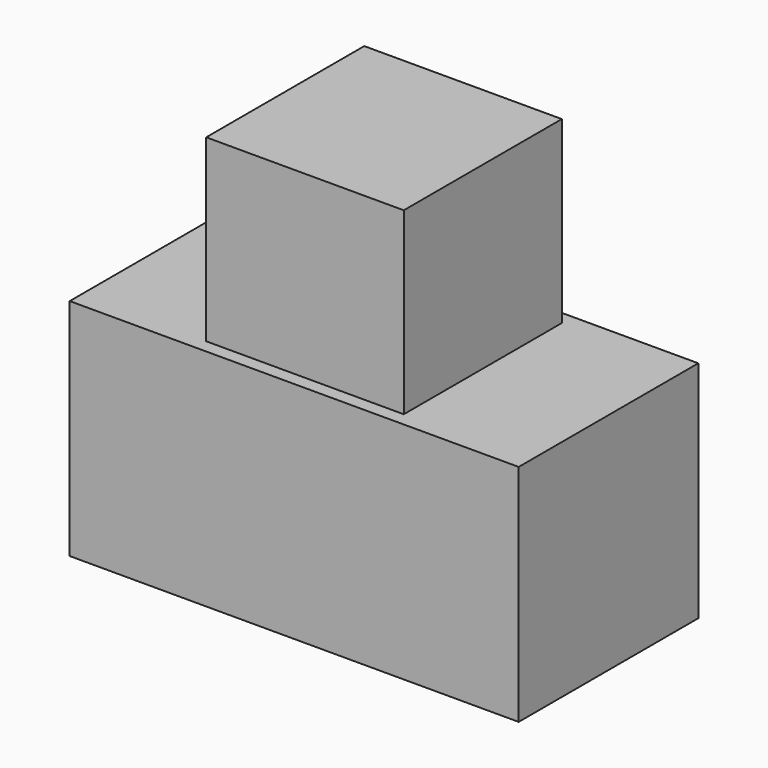
from build123d import *

# Parameters (mm, degrees)
BOX_W              = 10
BOX_H              = 10
BOX_DEPTH          = 10
SKETCH_W           = 4.4
SKETCH_H           = 4.4
PAD_DEPTH          = 4
PAD_FACE4_W        = 10
PAD_FACE4_H        = 10
POCKET_DEPTH       = 2.5
POCKET_FACE5_W     = 10
POCKET_FACE5_H     = 10
POCKET001_DEPTH    = 2.5
SKETCH001_W        = 5
SKETCH001_H        = 10
PAD001_DEPTH       = 10
SKETCH002_W        = 4.4
SKETCH002_H        = 4.4
PAD002_DEPTH       = 4
PAD002_FACE22_W    = 4.4
PAD002_FACE22_H    = 4.4
POCKET002_DEPTH    = 5
POCKET002_FACE16_W = 5
POCKET002_FACE16_H = 10
POCKET003_DEPTH    = 7.5
POCKET003_FACE15_W = 5
POCKET003_FACE15_H = 10
POCKET004_DEPTH    = 2.5
PAD003_DEPTH       = 5
POCKET005_DEPTH    = 10


with BuildPart() as part:
    # Box → Box (new body)
    with BuildSketch(Plane.XY):
        with Locations((5, 5)):
            Rectangle(BOX_W, BOX_H)
    extrude(amount=BOX_DEPTH)

    # Sketch (on Face6 of BaseFeature) → Pad (new body)
    with BuildSketch(Plane.XY.offset(10)):
        with Locations((5, 5)):
            Rectangle(SKETCH_W, SKETCH_H)
    extrude(amount=PAD_DEPTH)

    # Pad Face4 → Pocket (cut)
    with BuildSketch(Plane(origin=(5, 10, 5), x_dir=(1, 0, 0), z_dir=(0, 1, 0))):
        Rectangle(PAD_FACE4_W, PAD_FACE4_H)
    extrude(amount=-POCKET_DEPTH, mode=Mode.SUBTRACT)

    # Pocket Face5 → Pocket001 (cut)
    with BuildSketch(Plane(origin=(5, 0, 5), x_dir=(-1, 0, 0), z_dir=(0, -1, 0))):
        Rectangle(POCKET_FACE5_W, POCKET_FACE5_H)
    extrude(amount=-POCKET001_DEPTH, mode=Mode.SUBTRACT)

    # Sketch001 (on Face3 of Pocket001) → Pad001 (join)
    with BuildSketch(Plane(origin=(0, 7.5, 0), x_dir=(-1, 0, 0), z_dir=(0, 1, 0))):
        with Locations((-5, 5)):
            Rectangle(SKETCH001_W, SKETCH001_H)
    extrude(amount=PAD001_DEPTH)

    # Sketch002 (on Face6 of Pad001) → Pad002 (join)
    with BuildSketch(Plane.XY.offset(10)):
        with Locations((5, 12.5)):
            Rectangle(SKETCH002_W, SKETCH002_H)
    extrude(amount=PAD002_DEPTH)

    # Pad002 Face22 → Pocket002 (cut)
    with BuildSketch(Plane(origin=(5, 12.5, 14), x_dir=(0, 1, 0), z_dir=(0, 0, 1))):
        Rectangle(PAD002_FACE22_W, PAD002_FACE22_H)
    extrude(amount=-POCKET002_DEPTH, mode=Mode.SUBTRACT)

    # Pocket002 Face16 → Pocket003 (cut)
    with BuildSketch(Plane(origin=(5, 17.5, 5), x_dir=(1, 0, 0), z_dir=(0, 1, 0))):
        Rectangle(POCKET002_FACE16_W, POCKET002_FACE16_H)
    extrude(amount=-POCKET003_DEPTH, mode=Mode.SUBTRACT)

    # Pocket003 Face15 → Pocket004 (cut)
    with BuildSketch(Plane(origin=(5, 10, 5), x_dir=(1, 0, 0), z_dir=(0, 1, 0))):
        Rectangle(POCKET003_FACE15_W, POCKET003_FACE15_H)
    extrude(amount=-POCKET004_DEPTH, mode=Mode.SUBTRACT)

    # Pocket004 Face4 → Pad003 (add)
    with BuildSketch(Plane(origin=(5, 5, 0), x_dir=(0, -1, 0), z_dir=(0, 0, -1))):
        Polygon((2.5, 5), (-2.5, 5), (-2.5, 2.5), (-2.5, -2.5), (-2.5, -5), (2.5, -5), align=None)
    extrude(amount=PAD003_DEPTH)

    # Pad003 Face15 → Pocket005 (cut)
    with BuildSketch(Plane(origin=(5, 5, -5), x_dir=(0, -1, 0), z_dir=(0, 0, -1))):
        Polygon((2.5, 5), (-2.5, 5), (-2.5, 2.5), (-2.5, -2.5), (-2.5, -5), (2.5, -5), align=None)
    extrude(amount=-POCKET005_DEPTH, mode=Mode.SUBTRACT)


solid = part.part
